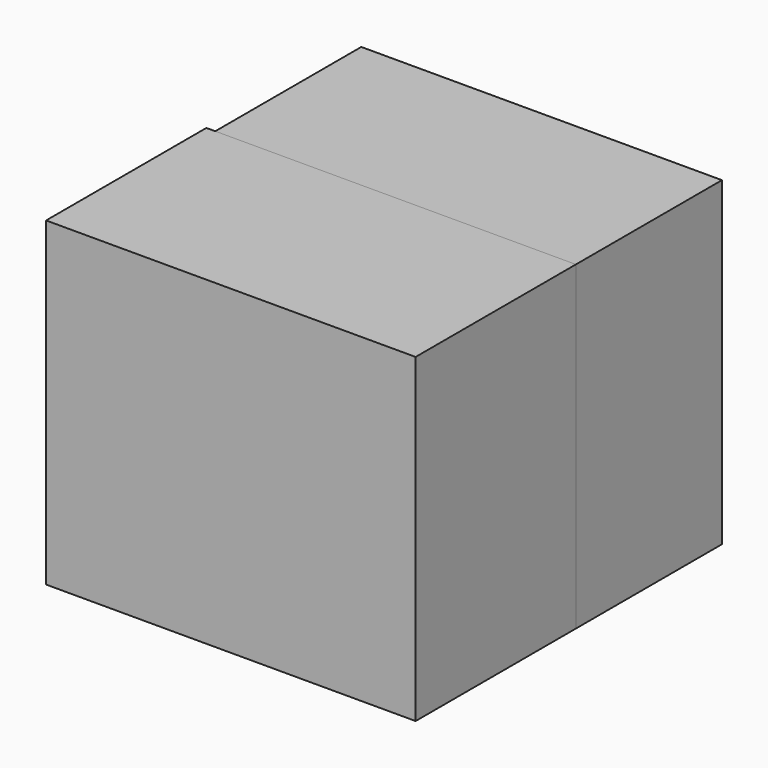
from build123d import *

# Parameters (mm, degrees)
F0_W     = 97.2830057144
F0_H     = 71.2111592293
F1_DEPTH = 1092.2
F2_DEPTH = 1028.7
F3_DEPTH = 914.4
F4_T     = -50.8
F5_DEPTH = 1092.2
F6_T     = 50.8


with BuildPart() as f1:
    # F0 (on Front) → F1 (new body, symmetric)
    with BuildSketch(Plane.XZ):
        Rectangle(F0_W, F0_H)
    extrude(amount=F1_DEPTH, both=True)

    # F2 (add, symmetric): a face of the model
    f2_faces = [f1.faces().sort_by_distance(p)[0] for p in [
        (-48.6415028572, 0, 0),
    ]]
    extrude(f2_faces, amount=F2_DEPTH, both=True)

    # F3 (add, symmetric): a face of the model
    f3_faces = [f1.faces().sort_by_distance(p)[0] for p in [
        (-48.6415028572, 0, 35.6055796146),
    ]]
    extrude(f3_faces, amount=F3_DEPTH, both=True)

    # F4
    f4_openings = [f1.faces().sort_by_distance(p)[0] for p in [
        (-1077.341503, 0, 35.60558),
    ]]
    offset(amount=F4_T, openings=f4_openings)


with BuildPart() as f5:
    # F5 (new): a face of the model
    f5_faces = [f1.part.faces().sort_by_distance(p)[0] for p in [
        (-74.0415028572, -1041.4, 35.6055796146),
    ]]
    extrude(f5_faces, amount=F5_DEPTH)

    # F6
    f6_openings = [f5.faces().sort_by_distance(p)[0] for p in [
        (-74.041503, 50.8, 35.60558),
    ]]
    offset(amount=F6_T, openings=f6_openings, kind=Kind.INTERSECTION)


solid = Compound([f1.part, f5.part])
